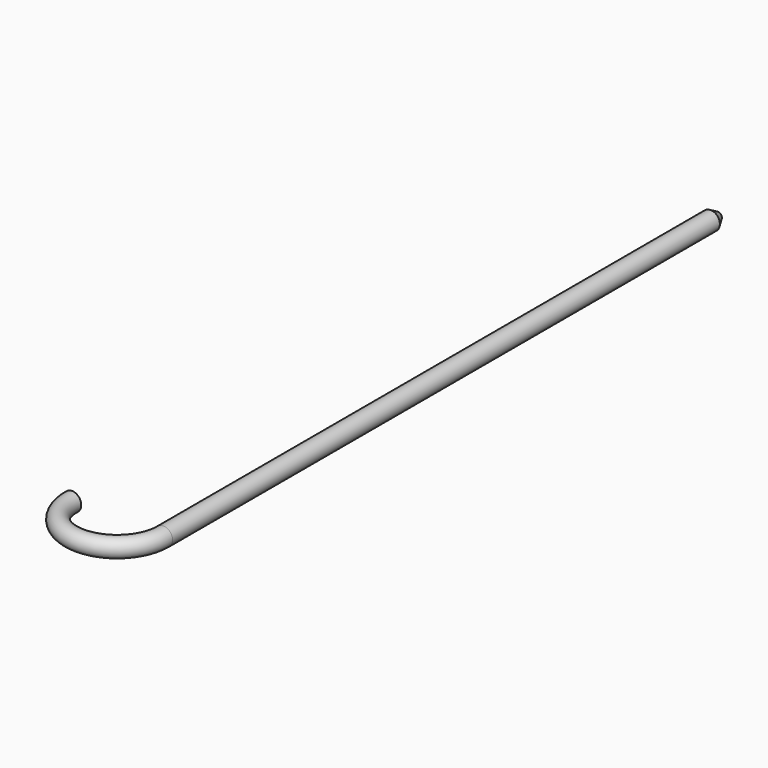
from build123d import *

# Parameters (mm, degrees)
F1_R     = 3
F3_SIZE2 = 1.7320508076
F3_SIZE  = 3


with BuildPart() as f2:
    # F2: sweep along a path in F0
    with BuildLine(Plane.XY) as f2_path:
        Line((0, 0), (0, -225))
        ThreePointArc((0, -225), (-15.2769863919, -239.9974423999), (-29.9897704718, -224.4461216722))
    # F1 (on Front) → F2 (sweep)
    with BuildSketch(Plane.XZ):
        Circle(F1_R)
    sweep(path=f2_path.line)

    # F3
    f3_edges = [f2.edges().sort_by_distance(p)[0] for p in [
        (-3, 0, 0),
    ]]
    chamfer(f3_edges, length=F3_SIZE, length2=F3_SIZE2)


solid = f2.part
